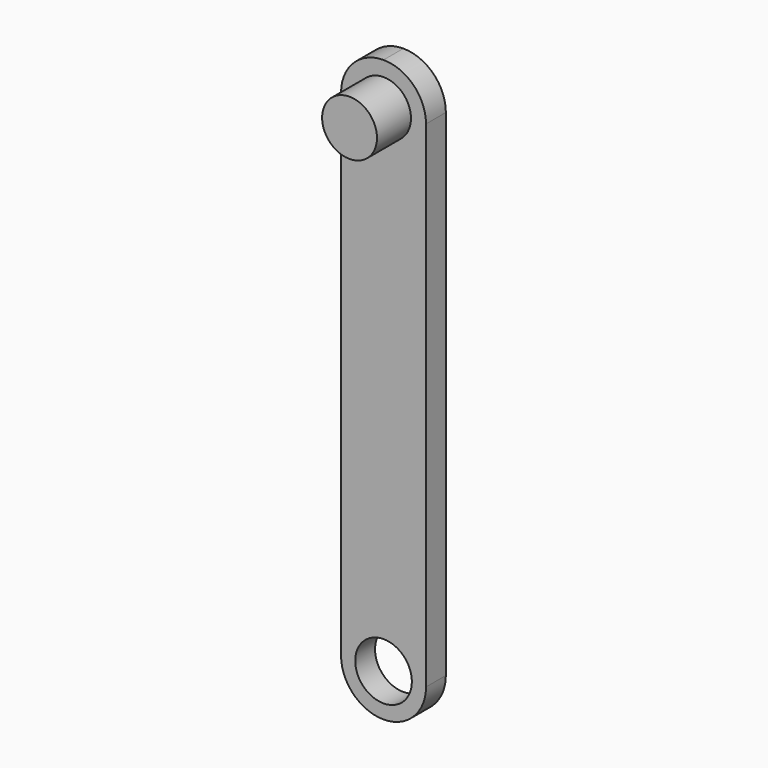
from build123d import *

# Parameters (mm, degrees)
F0_R     = 0.4064
F0_R_2   = 0.3937
F1_DEPTH = 0.1778
F2_DEPTH = 0.7874
F3_SCALE = 7.5


with BuildPart() as f1:
    # F0 (on Front) → F1 (new body, symmetric)
    with BuildSketch(Plane.XZ):
        with BuildLine():
            ThreePointArc((0, 7.7216), (-0.4310522938, 7.5430522938), (-0.6096, 7.112))
            Line((-0.6096, 7.112), (-0.6096, 0))
            ThreePointArc((-0.6096, 0), (-0.4310522938, -0.4310522938), (0, -0.6096))
            ThreePointArc((0, -0.6096), (0.4310522938, -0.4310522938), (0.6096, 0))
            Line((0.6096, 0), (0.6096, 7.112))
            ThreePointArc((0.6096, 7.112), (0.4310522938, 7.5430522938), (0, 7.7216))
        make_face()
        Circle(F0_R, mode=Mode.SUBTRACT)
        with Locations((0, 7.112)):
            Circle(F0_R_2, mode=Mode.SUBTRACT)
    extrude(amount=F1_DEPTH, both=True)

    # F0 (on Front) → F2 (join)
    with BuildSketch(Plane.XZ):
        with Locations((0, 7.112)):
            Circle(F0_R_2)
    extrude(amount=F2_DEPTH)


with BuildPart() as f1_1:
    # F3: moved
    add(f1.part.scale(F3_SCALE))


solid = f1_1.part
